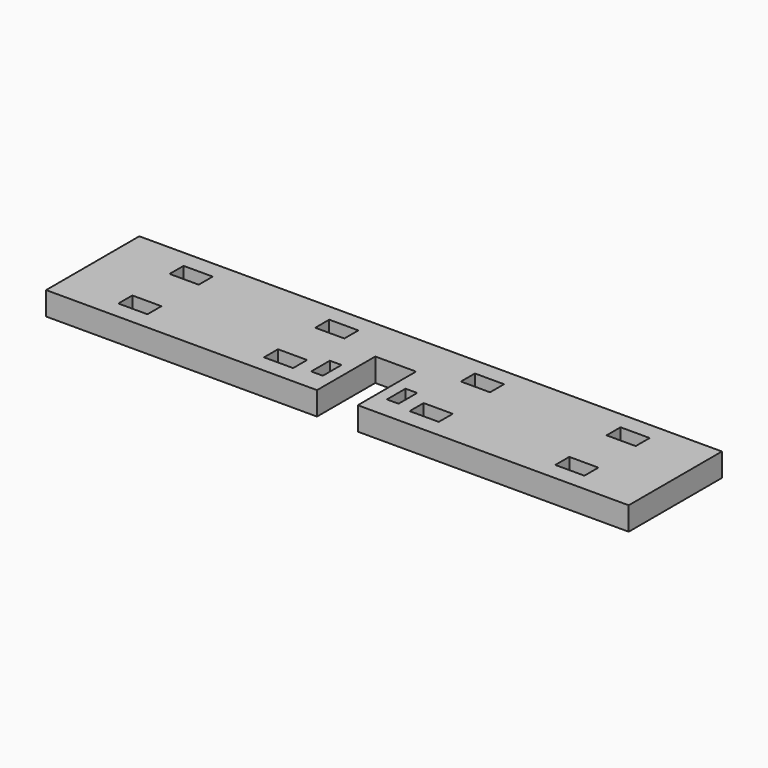
from build123d import *

# Parameters (mm, degrees)
F0_W     = 100
F0_H     = 20
F1_DEPTH = 4
F2_W     = 5
F2_H     = 3
F2_W_2   = 7
F2_H_2   = 2.5
F2_W_3   = 2
F2_H_3   = 4
F2_H_4   = 4.5
F3_DEPTH = 4


with BuildPart() as f1:
    # F0 (on Top) → F1 (new body)
    with BuildSketch(Plane.XY):
        Rectangle(F0_W, F0_H)
    extrude(amount=F1_DEPTH)

    # F2 (on face) → F3 (cut)
    with BuildSketch(Plane.XY.offset(4)):
        with Locations((-37.5, 5.5)):
            Rectangle(F2_W, F2_H)
        with Locations((-37.5, -5.5)):
            Rectangle(F2_W, F2_H)
        with Locations((-12.5, -5.5)):
            Rectangle(F2_W, F2_H)
        with Locations((-12.5, 5.5)):
            Rectangle(F2_W, F2_H)
        with Locations((0, 1.25)):
            Rectangle(F2_W_2, F2_H_2)
        with Locations((0, -1.25)):
            Rectangle(F2_W_2, F2_H_2)
        with Locations((-6.5, -4.25)):
            Rectangle(F2_W_3, F2_H_3)
        with Locations((6.5, -4.25)):
            Rectangle(F2_W_3, F2_H_3)
        with Locations((12.5, -5.5)):
            Rectangle(F2_W, F2_H)
        with Locations((12.5, 5.5)):
            Rectangle(F2_W, F2_H)
        with Locations((37.5, 5.5)):
            Rectangle(F2_W, F2_H)
        with Locations((37.5, -5.5)):
            Rectangle(F2_W, F2_H)
        with Locations((0, -4.75)):
            Rectangle(F2_W_2, F2_H_4)
        with Locations((0, -8.5)):
            Rectangle(F2_W_2, F2_H)
    extrude(amount=-F3_DEPTH, mode=Mode.SUBTRACT)


solid = f1.part
